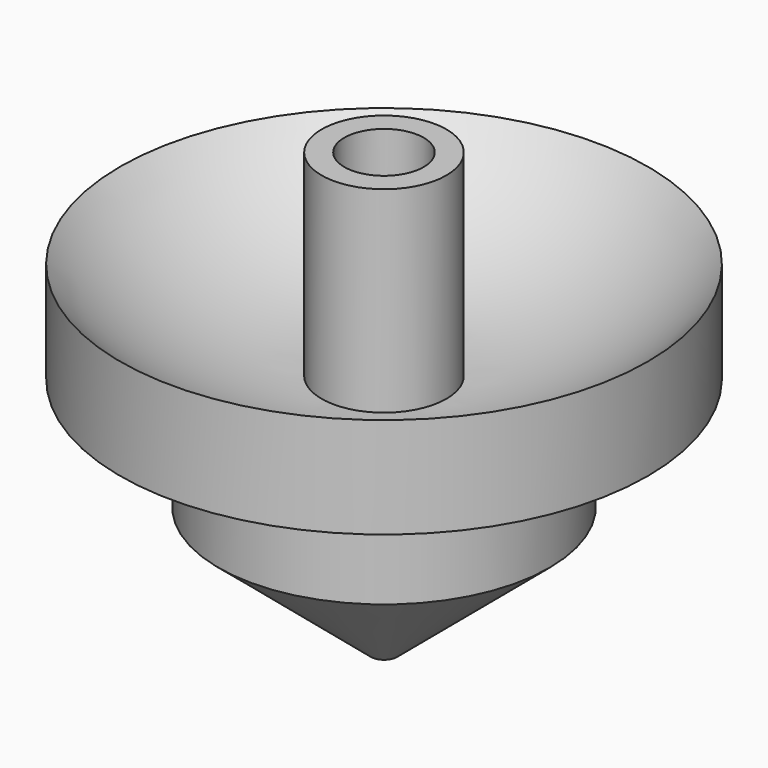
from build123d import *

# Parameters (mm, degrees)
F2_R     = 4.7625
F3_DEPTH = 9.525
F4_R     = 1.5875
F5_DEPTH = 25.4


with BuildPart() as f1:
    # F0 (on Front) → F1 (revolve)
    with BuildSketch(Plane.XZ):
        with BuildLine():
            Line((0, 54.107483), (0, 0))
            Line((0, 0), (19.858597, 16.692733))
            Line((19.858597, 16.692733), (19.858597, 30.219605))
            Line((19.858597, 30.219605), (31.658631, 30.219605))
            Line((31.658631, 30.219605), (31.658631, 42.307448))
            ThreePointArc((31.658631, 42.307448), (20.795094, 33.8991), (7.48295, 30.50741))
            Line((7.48295, 30.50741), (7.48295, 54.107483))
            Line((7.48295, 54.107483), (0, 54.107483))
        make_face()
    revolve(axis=Axis((0, 0, 27.053742), (0, 0, 1)))

    # F2 (on face) → F3 (cut)
    with BuildSketch(Plane.XY.offset(54.107483)):
        Circle(F2_R)
    extrude(amount=-F3_DEPTH, mode=Mode.SUBTRACT)

    # F4 (on Top) → F5 (cut)
    with BuildSketch(Plane.XY):
        Circle(F4_R)
    extrude(amount=F5_DEPTH, mode=Mode.SUBTRACT)


solid = f1.part
